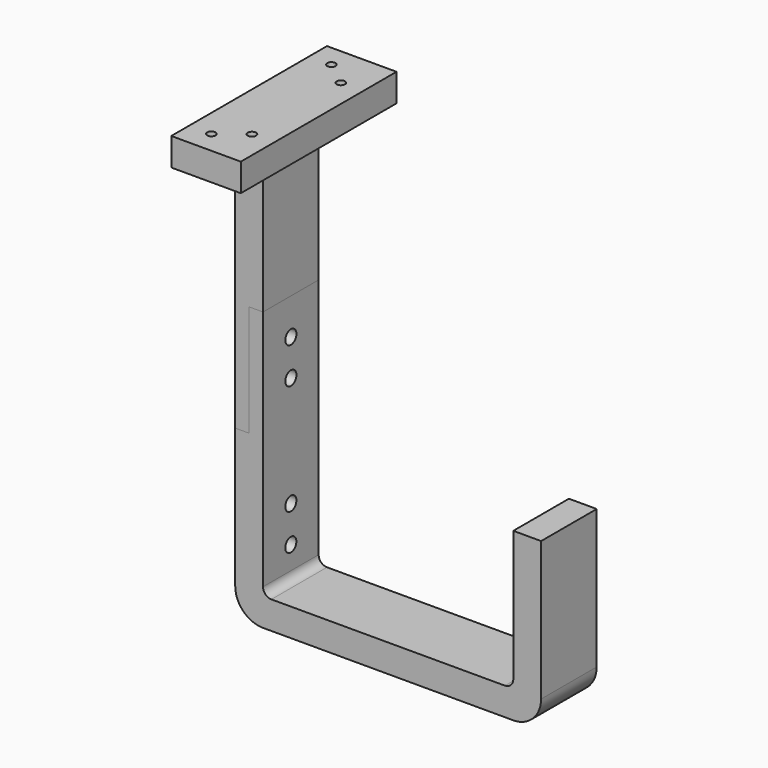
from build123d import *

# Parameters (mm, degrees)
F0_W       = 10
F0_H       = 50
F1_DEPTH   = 12.5
F0_W_2     = 5
F0_H_2     = 40
F2_DEPTH   = 12.5
F4_D       = 5
F4_DEPTH   = 30
F4_TIP     = 1.5021515476
F4_2_D     = 5
F4_2_DEPTH = 30
F4_2_TIP   = 1.5021515476
F5_W       = 25
F5_H       = 70
F5_W_2     = 10
F5_H_2     = 25
F6_DEPTH   = 10
F7_D       = 3
F8_R       = 10
F9_R       = 3


with BuildPart() as f1:
    # F0 (on Front) → F1 (new body, symmetric)
    with BuildSketch(Plane.XZ):
        Polygon((-70.3919455409, 12.8702814982), (-60.3919455409, 12.8702814982), (-60.3919455409, 22.8702814982), (-60.3919455409, 112.8702814982), (-65.3919455409, 112.8702814982), (-65.3919455409, 72.8702814982), (-70.3919455409, 72.8702814982), align=None)
        Polygon((-60.3919455409, 12.8702814982), (39.6080544591, 12.8702814982), (39.6080544591, 22.8702814982), (29.6080544591, 22.8702814982), (-60.3919455409, 22.8702814982), align=None)
        with Locations((34.6080544591, 47.8702814982)):
            Rectangle(F0_W, F0_H)
    extrude(amount=F1_DEPTH, both=True)

    # F4
    with Locations(Plane(origin=(-70.3919455409, 0, 0), x_dir=(0, -1, 0), z_dir=(-1, 0, 0))):
        with Locations((-0.0052508735, 99.8702814982), (-0.0052508735, 86.8702814982), (0.0070159344, 47.1519191861), (0.0070159344, 34.1519191861)):
            Hole(F4_D / 2, depth=F4_DEPTH)
            with Locations((0, 0, -(F4_DEPTH + F4_TIP / 2))):  # 118° drill point
                Cone(0, F4_D / 2, F4_TIP, mode=Mode.SUBTRACT)

    # F8
    f8_edges = [f1.edges().sort_by_distance(p)[0] for p in [
        (-70.391946, 0, 12.870281),
        (39.608054, 0, 12.870281),
    ]]
    fillet(f8_edges, radius=F8_R)

    # F9
    f9_edges = [f1.edges().sort_by_distance(p)[0] for p in [
        (29.608054, 0, 22.870281),
        (-60.391946, 0, 22.870281),
    ]]
    fillet(f9_edges, radius=F9_R)


with BuildPart() as f2:
    # F0 (on Front) → F2 (new body, symmetric)
    with BuildSketch(Plane.XZ):
        Polygon((-65.3919455409, 112.8702814982), (-60.3919455409, 112.8702814982), (-60.3919455409, 162.8702814982), (-70.3919455409, 162.8702814982), (-70.3919455409, 112.8702814982), align=None)
        with Locations((-67.8919455409, 92.8702814982)):
            Rectangle(F0_W_2, F0_H_2)
    extrude(amount=F2_DEPTH, both=True)

    # F4#2
    with Locations(Plane(origin=(-70.3919455409, 0, 0), x_dir=(0, -1, 0), z_dir=(-1, 0, 0))):
        with Locations((-0.0052508735, 99.8702814982), (-0.0052508735, 86.8702814982), (0.0070159344, 47.1519191861), (0.0070159344, 34.1519191861)):
            Hole(F4_2_D / 2, depth=F4_2_DEPTH)
            with Locations((0, 0, -(F4_2_DEPTH + F4_2_TIP / 2))):  # 118° drill point
                Cone(0, F4_2_D / 2, F4_2_TIP, mode=Mode.SUBTRACT)

    # F5 (on face) → F6 (join)
    with BuildSketch(Plane.XY.offset(162.8702814982)):
        with Locations((-62.8919455409, 0.0052508735)):
            Rectangle(F5_W, F5_H)
        with Locations((-65.3919455409, 0)):
            Rectangle(F5_W_2, F5_H_2, mode=Mode.SUBTRACT)
        with Locations((-65.3919455409, 0)):
            Rectangle(F5_W_2, F5_H_2)
    extrude(amount=F6_DEPTH)

    # F7 (through all)
    with Locations(Plane(origin=(0, 0, 162.8702814982), x_dir=(1, 0, 0), z_dir=(0, 0, -1))):
        with Locations((-58.3919455409, -19.9947491265), (-67.3919455409, -26.9947491265), (-58.3919455409, 19.9947491265), (-67.3919455409, 26.9947491265)):
            Hole(F7_D / 2)


solid = Compound([f1.part, f2.part])
